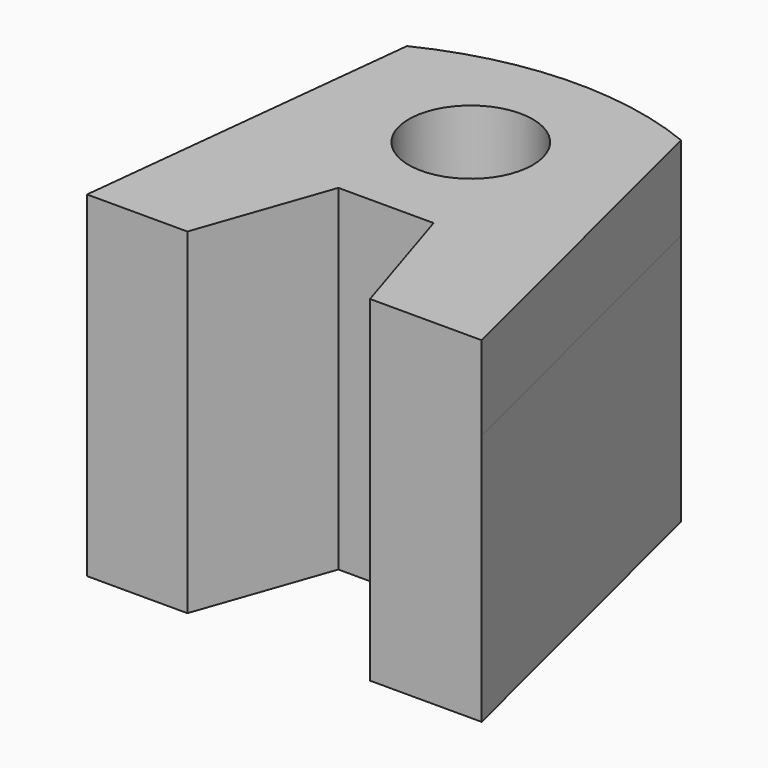
from build123d import *

# Parameters (mm, degrees)
F1_DEPTH = 25.4
F2_DEPTH = 12.7
F3_R     = 9.3751640111
F4_DEPTH = 12.7
F5_DEPTH = 38.101


with BuildPart() as f1:
    # F0 (on Top) → F1 (new body)
    with BuildSketch(Plane.XY):
        with BuildLine():
            Line((32.6498188078, -5.9798206203), (19.062470553, 48.6717349119))
            ThreePointArc((19.062470553, 48.6717349119), (-1.2334703342, 52.2374412428), (-21.2233329751, 47.2329562812))
            Line((-21.2233329751, 47.2329562812), (-27.0181472742, -5.9798206203))
            Line((-27.0181472742, -5.9798206203), (-11.8400434842, -5.9798206203))
            Line((-11.8400434842, -5.9798206203), (-4.9034534022, 13.8731840998))
            Line((-4.9034534022, 13.8731840998), (9.4984725438, 13.8731840998))
            Line((9.4984725438, 13.8731840998), (15.767841556, -5.9798206203))
            Line((15.767841556, -5.9798206203), (32.6498188078, -5.9798206203))
        make_face()
    extrude(amount=F1_DEPTH)

    # F0 (on Top) + F1_face (on face) → F2 (join, symmetric)
    with BuildSketch(Plane.XY):
        with BuildLine():
            Line((32.6498188078, -5.9798206203), (19.062470553, 48.6717349119))
            ThreePointArc((19.062470553, 48.6717349119), (-1.2334703342, 52.2374412428), (-21.2233329751, 47.2329562812))
            Line((-21.2233329751, 47.2329562812), (-27.0181472742, -5.9798206203))
            Line((-27.0181472742, -5.9798206203), (-11.8400434842, -5.9798206203))
            Line((-11.8400434842, -5.9798206203), (-4.9034534022, 13.8731840998))
            Line((-4.9034534022, 13.8731840998), (9.4984725438, 13.8731840998))
            Line((9.4984725438, 13.8731840998), (15.767841556, -5.9798206203))
            Line((15.767841556, -5.9798206203), (32.6498188078, -5.9798206203))
        make_face()
    with BuildSketch(Plane(origin=(0.8435409234, 23.5753340068, 25.4), x_dir=(1, 0, 0), z_dir=(0, 0, 1))):
        with BuildLine():
            Line((31.8062778844, -29.5551546271), (18.2189296295, 25.0964009052))
            ThreePointArc((18.2189296295, 25.0964009052), (-2.0770112576, 28.662107236), (-22.0668738986, 23.6576222744))
            Line((-22.0668738986, 23.6576222744), (-27.8616881976, -29.5551546271))
            Line((-27.8616881976, -29.5551546271), (-12.6835844076, -29.5551546271))
            Line((-12.6835844076, -29.5551546271), (-5.7469943256, -9.702149907))
            Line((-5.7469943256, -9.702149907), (8.6549316203, -9.702149907))
            Line((8.6549316203, -9.702149907), (14.9243006326, -29.5551546271))
            Line((14.9243006326, -29.5551546271), (31.8062778844, -29.5551546271))
        make_face()
    extrude(amount=F2_DEPTH, both=True)

    # F3 (on face) → F4 (cut, symmetric)
    with BuildSketch(Plane.XY.offset(38.1)):
        with Locations((0, 32.7694192529)):
            Circle(F3_R)
    extrude(amount=F4_DEPTH, both=True, mode=Mode.SUBTRACT)

    # F5 (cut, through all): a face of the model
    f5_faces = [f1.faces().sort_by_distance(p)[0] for p in [
        (0, 32.7694192529, 25.4),
    ]]
    extrude(f5_faces, amount=-F5_DEPTH, mode=Mode.SUBTRACT)


solid = f1.part
